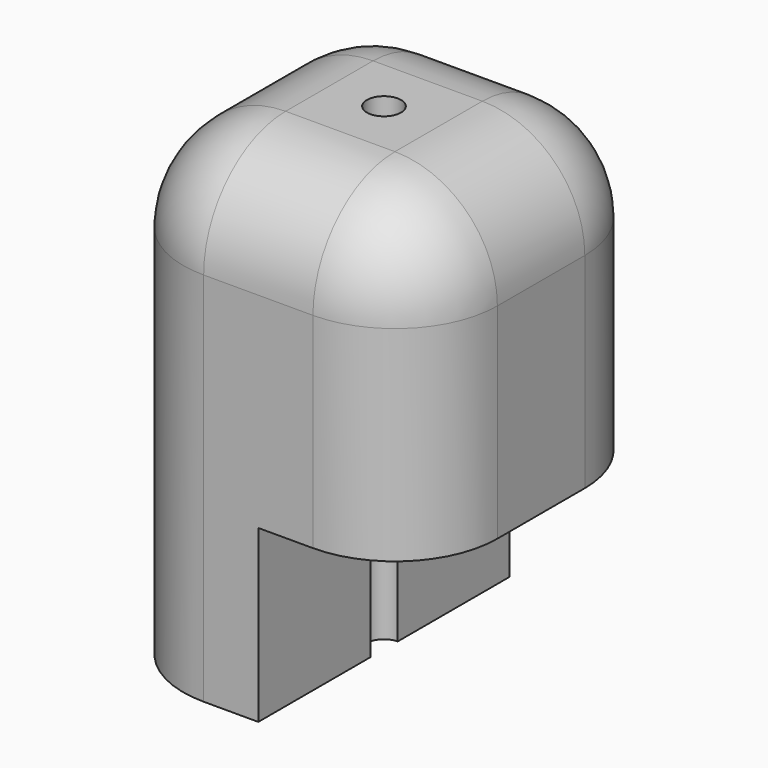
from build123d import *

# Parameters (mm, degrees)
SKETCH_W        = 9.2
SKETCH_H        = 9.2
PAD_DEPTH       = 14
SKETCH001_R     = 0.5
POCKET_DEPTH    = 14.001
FILLET_R        = 3
SKETCH002_W     = 5.20137
SKETCH002_H     = 9.517286
POCKET001_DEPTH = 5


with BuildPart() as part:
    # Sketch → Pad (new body)
    with BuildSketch(Plane.XY):
        Rectangle(SKETCH_W, SKETCH_H)
    extrude(amount=PAD_DEPTH)

    # Sketch001 (on Face6 of Pad) → Pocket (cut, through all)
    with BuildSketch(Plane.XY.offset(14)):
        Circle(SKETCH001_R)
    extrude(amount=-POCKET_DEPTH, mode=Mode.SUBTRACT)

    # Fillet
    fillet_edges = [part.edges().sort_by_distance(p)[0] for p in [
        (0, 4.6, 14),
        (4.6, 4.6, 7),
        (4.6, 0, 14),
        (-4.6, 4.6, 7),
        (-4.6, 0, 14),
        (4.6, -4.6, 7),
        (-4.6, -4.6, 7),
        (0, -4.6, 14),
    ]]
    fillet(fillet_edges, radius=FILLET_R)

    # Sketch002 (on Face2 of Fillet) → Pocket001 (cut)
    with BuildSketch(Plane(origin=(0, 0, 0), x_dir=(1, 0, 0), z_dir=(0, 0, -1))):
        with Locations((2.600685, 0.034579)):
            Rectangle(SKETCH002_W, SKETCH002_H)
    extrude(amount=-POCKET001_DEPTH, mode=Mode.SUBTRACT)


solid = part.part
